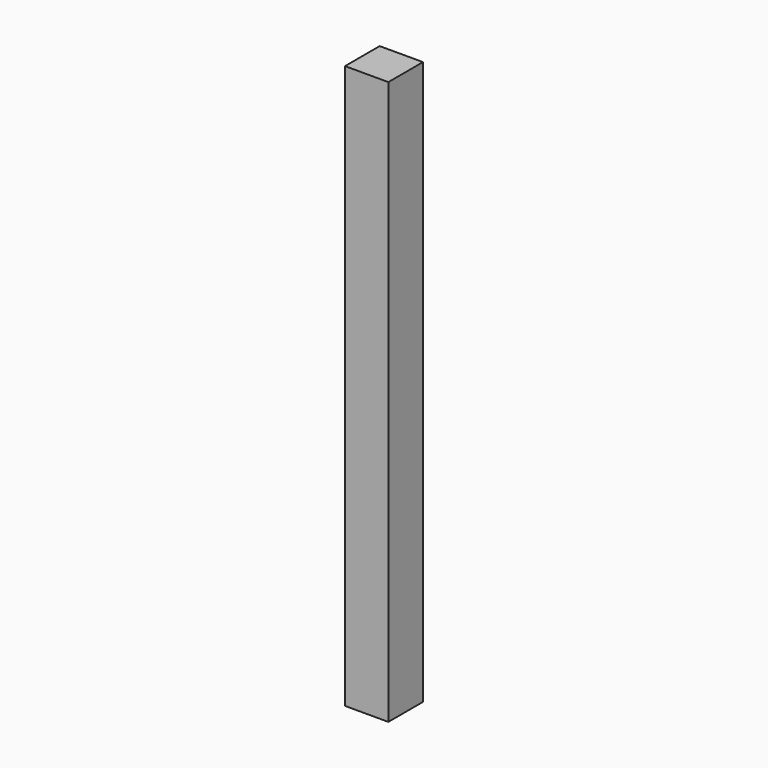
from build123d import *

# Parameters (mm, degrees)
RECTANGLE071_W   = 5
RECTANGLE071_H   = 10
EXTRUDE085_DEPTH = 5
RECTANGLE034_W   = 5
RECTANGLE034_H   = 75
EXTRUDE040_DEPTH = 5


with BuildPart() as extrude085:
    # Rectangle071 → Extrude085 (new body)
    with BuildSketch(Plane(origin=(-245, 40, 80), x_dir=(0, -1, 0), z_dir=(-1, 0, 0))):
        with Locations((2.5, 5)):
            Rectangle(RECTANGLE071_W, RECTANGLE071_H)
    extrude(amount=-EXTRUDE085_DEPTH)


with BuildPart() as extrude085_1:
    # Extrude085 placement: moved
    add(extrude085.part.moved(Location((100, 0, 0))))


with BuildPart() as cut005:
    # Rectangle034 → Extrude040 (new body)
    with BuildSketch(Plane(origin=(-140, 35, 15), x_dir=(0, 1, 0), z_dir=(1, 0, 0))):
        with Locations((2.5, 37.5)):
            Rectangle(RECTANGLE034_W, RECTANGLE034_H)
    extrude(amount=-EXTRUDE040_DEPTH)

    # Cut005: cut Extrude085
    add(extrude085_1.part, mode=Mode.SUBTRACT)


solid = cut005.part
